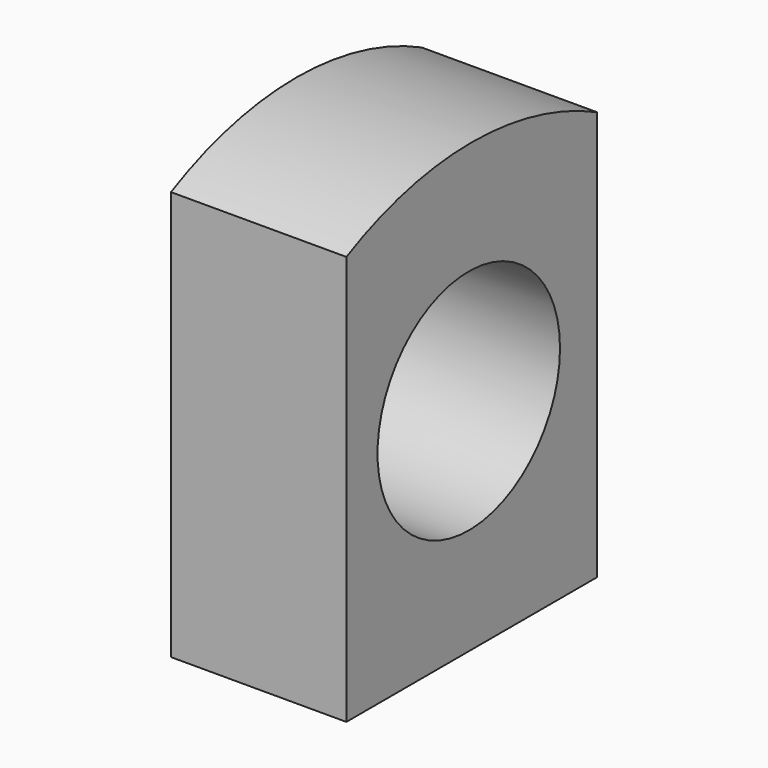
from build123d import *

# Parameters (mm, degrees)
F0_W     = 68.040784
F0_H     = 88.9
F0_R     = 24.76466
F1_DEPTH = 38.1


with BuildPart() as f1:
    # F0 (on Right) → F1 (new body)
    with BuildSketch(Plane.YZ):
        with Locations((-34.020392, 25.577374)):
            Rectangle(F0_W, F0_H)
        with Locations((-34.822818, 28.990736)):
            Circle(F0_R, mode=Mode.SUBTRACT)
        with BuildLine():
            Line((-68.040784, 70.027374), (0, 70.027374))
            ThreePointArc((0, 70.027374), (-34.020392, 78.10596), (-68.040784, 70.027374))
        make_face()
    extrude(amount=F1_DEPTH)


solid = f1.part
